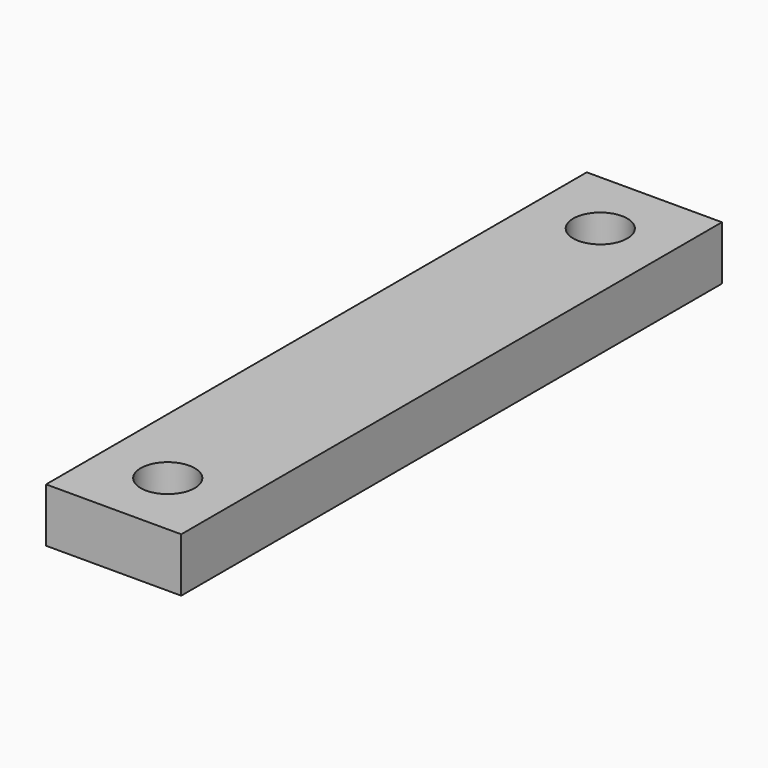
from build123d import *

# Parameters (mm, degrees)
F0_W     = 10
F0_H     = 50
F0_R     = 2
F1_DEPTH = 2


with BuildPart() as f1:
    # F0 (on Top) → F1 (new body, symmetric)
    with BuildSketch(Plane.XY):
        with Locations((0, 20)):
            Rectangle(F0_W, F0_H)
        Circle(F0_R, mode=Mode.SUBTRACT)
        with Locations((0, 40)):
            Circle(F0_R, mode=Mode.SUBTRACT)
    extrude(amount=F1_DEPTH, both=True)


solid = f1.part
